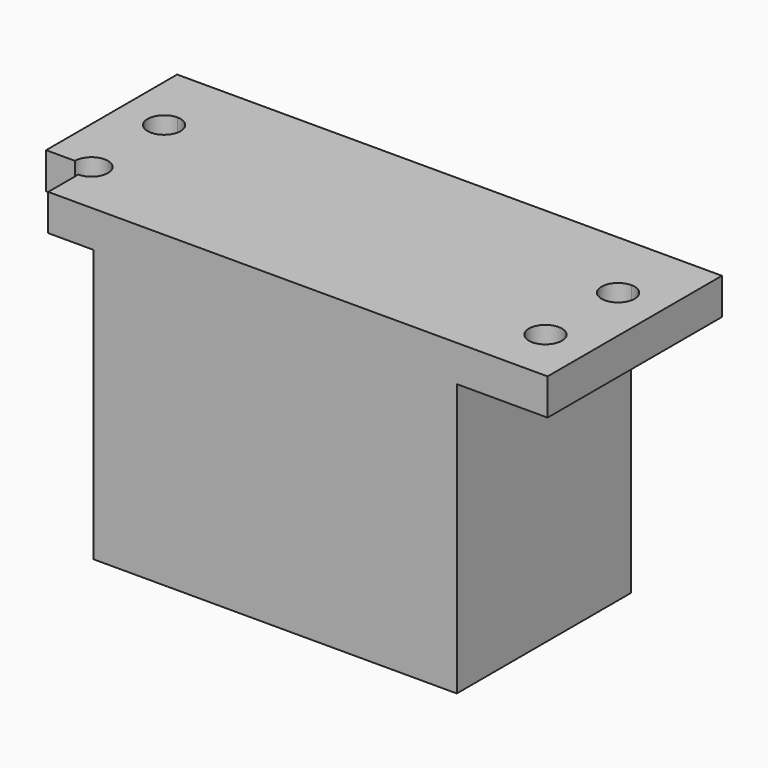
from build123d import *

# Parameters (mm, degrees)
F0_W     = 50.8
F0_H     = 30.48
F1_DEPTH = 50.8
F2_W     = 43.18
F2_H     = 21.59
F3_DEPTH = 45.72
F5_DEPTH = 5.08
F6_W     = 7.62
F6_H     = 45.72
F7_DEPTH = 13.47426
F8_W     = 30.48
F8_H     = 7.62
F9_DEPTH = 78.77304


with BuildPart() as f1:
    # F0 (on Top) → F1 (new body)
    with BuildSketch(Plane.XY):
        Rectangle(F0_W, F0_H)
    extrude(amount=F1_DEPTH)

    # F2 (on Top) → F3 (cut)
    with BuildSketch(Plane.XY):
        Rectangle(F2_W, F2_H)
    extrude(amount=F3_DEPTH, mode=Mode.SUBTRACT)

    # F4 (on face) → F5 (join)
    with BuildSketch(Plane.XY.offset(50.8)):
        Polygon((31.75, 15.24), (25.4, 15.24), (25.4, -15.24), (31.75, -15.24), (38.1, -15.24), (38.1, 15.24), align=None)
        with BuildLine():
            ThreePointArc((34.0614, -7.678979), (33.384407, -9.313385), (31.75, -9.990379))
            ThreePointArc((31.75, -9.990379), (30.115593, -6.044572), (34.0614, -7.678979))
        make_face(mode=Mode.SUBTRACT)
        with BuildLine():
            ThreePointArc((34.0614, 5.021021), (30.115593, 3.386615), (31.75, 7.332421))
            ThreePointArc((31.75, 7.332421), (33.384407, 6.655428), (34.0614, 5.021021))
        make_face(mode=Mode.SUBTRACT)
        with BuildLine():
            Line((-25.4, -15.24), (-25.4, 15.24))
            Line((-25.4, 15.24), (-31.75, 15.24))
            Line((-31.75, 15.24), (-38.1, 15.24))
            Line((-38.1, 15.24), (-38.1, -7.678979))
            Line((-38.1, -7.678979), (-34.0614, -7.678979))
            ThreePointArc((-34.0614, -7.678979), (-31.75, -5.367579), (-29.4386, -7.678979))
            ThreePointArc((-29.4386, -7.678979), (-30.115593, -9.313385), (-31.75, -9.990379))
            Line((-31.75, -9.990379), (-31.75, -15.24))
            Line((-31.75, -15.24), (-25.4, -15.24))
        make_face()
        with BuildLine():
            ThreePointArc((-29.4386, 5.021021), (-33.384407, 3.386615), (-31.75, 7.332421))
            ThreePointArc((-31.75, 7.332421), (-30.115593, 6.655428), (-29.4386, 5.021021))
        make_face(mode=Mode.SUBTRACT)
    extrude(amount=-F5_DEPTH)

    # F6 (on face) → F7 (cut)
    with BuildSketch(Plane(origin=(-25.4, 0, 0), x_dir=(0, -1, 0), z_dir=(-1, 0, 0))):
        with Locations((0, -22.86)):
            Rectangle(F6_W, F6_H)
        with Locations((0, 22.86)):
            Rectangle(F6_W, F6_H)
    extrude(amount=-F7_DEPTH, mode=Mode.SUBTRACT)

    # F8 (on face) → F9 (cut)
    with BuildSketch(Plane.YZ.offset(25.4)):
        with Locations((0, 3.81)):
            Rectangle(F8_W, F8_H)
        Polygon((26.814165, 7.62), (15.24, 7.62), (15.24, 0), (-15.24, 0), (-15.24, -4.411362), (26.814165, -4.411362), align=None)
    extrude(amount=-F9_DEPTH, mode=Mode.SUBTRACT)


solid = f1.part
